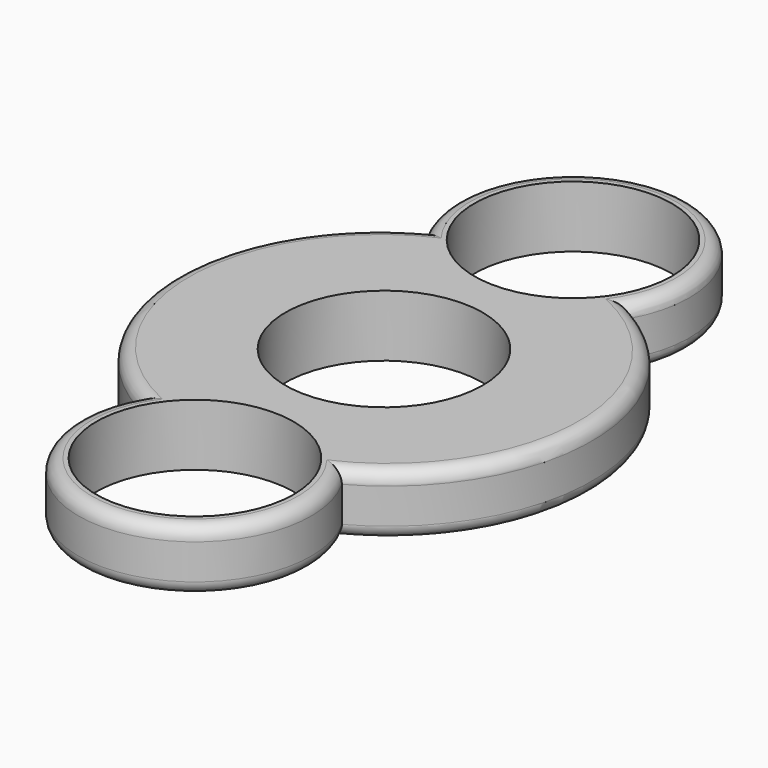
from build123d import *

# Parameters (mm, degrees)
F0_R     = 11.2
F1_DEPTH = 7
F2_R     = 1.5
F3_R     = 1.5


with BuildPart() as f1:
    # F0 (on Top) → F1 (new body)
    with BuildSketch(Plane.XY):
        with BuildLine():
            ThreePointArc((11.516784, -20.370315), (23.629371, -0.001645), (11.51402, 20.365381))
            ThreePointArc((11.51402, 20.365381), (0.002827, 40.020406), (-11.516784, 20.370315))
            ThreePointArc((-11.516784, 20.370315), (-23.629371, 0.001645), (-11.51402, -20.365381))
            ThreePointArc((-11.51402, -20.365381), (-0.002827, -40.020406), (11.516784, -20.370315))
        make_face()
        with Locations((0, -26.820406)):
            Circle(F0_R, mode=Mode.SUBTRACT)
        Circle(F0_R, mode=Mode.SUBTRACT)
        with Locations((0, 26.820406)):
            Circle(F0_R, mode=Mode.SUBTRACT)
    extrude(amount=F1_DEPTH)

    # F2
    f2_edges = [f1.edges().sort_by_distance(p)[0] for p in [
        (-23.629371, 0.001645, 7),
        (0.002827, 40.020406, 7),
        (23.629371, -0.001645, 7),
        (-0.002827, -40.020406, 7),
    ]]
    fillet(f2_edges, radius=F2_R)

    # F3
    f3_edges = [f1.edges().sort_by_distance(p)[0] for p in [
        (23.629371, -0.001645, 0),
        (0.002827, 40.020406, 0),
        (-23.629371, 0.001645, 0),
        (-0.002827, -40.020406, 0),
    ]]
    fillet(f3_edges, radius=F3_R)


solid = f1.part
